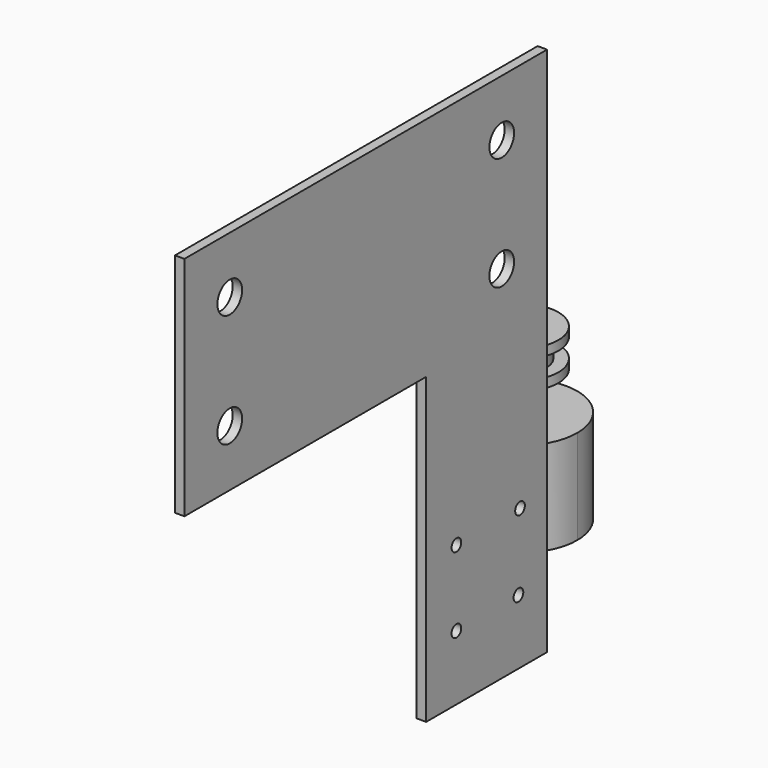
from build123d import *

# Parameters (mm, degrees)
F0_R      = 1.6
F0_R_2    = 4.0900821391
F0_R_3    = 8.5154019065
F1_DEPTH  = 2.5
F3_DEPTH  = 25
F4_R      = 2.5
F5_DEPTH  = 10
F6_R      = 10
F6_R_2    = 2.5
F7_DEPTH  = 2.5
F8_R      = 6.7837537735
F9_DEPTH  = 5
F10_R     = 10
F10_R_2   = 6.7837537735
F11_DEPTH = 2.5
F12_R     = 2.5
F13_DEPTH = 5


with BuildPart() as f1:
    # F0 (on Right) → F1 (new body)
    with BuildSketch(Plane.YZ):
        Polygon((-40, 0), (0, 0), (0, 140.4301102979), (-120, 140.4301102979), (-120, 80.4301102979), (-40, 80.4301102979), align=None)
        with Locations((-30, 17.1576072229)):
            Circle(F0_R, mode=Mode.SUBTRACT)
        with Locations((-9.4648276111, 17.1576072229)):
            Circle(F0_R, mode=Mode.SUBTRACT)
        with Locations((-30, 37.1576072229)):
            Circle(F0_R, mode=Mode.SUBTRACT)
        with Locations((-8.9432526233, 37.1576072229)):
            Circle(F0_R, mode=Mode.SUBTRACT)
        with Locations((-105, 95.4301102979)):
            Circle(F0_R_2, mode=Mode.SUBTRACT)
        with Locations((-105, 125.4301102979)):
            Circle(F0_R_2, mode=Mode.SUBTRACT)
        with Locations((-15, 95.4301102979)):
            Circle(F0_R_2, mode=Mode.SUBTRACT)
        with Locations((-60, 110.4301102979)):
            Circle(F0_R_3, mode=Mode.SUBTRACT)
        with Locations((-15, 125.4301102979)):
            Circle(F0_R_2, mode=Mode.SUBTRACT)
        with Locations((-60, 110.4301102979)):
            Circle(F0_R_3)
    extrude(amount=F1_DEPTH)


with BuildPart() as f3:
    # F2 (on Top) → F3 (new body)
    with BuildSketch(Plane.XY):
        with BuildLine():
            ThreePointArc((-51.6152642667, 35.026761755), (-34.7631884448, 28.6183173725), (-23.927834481, 43.0285818875))
            ThreePointArc((-23.927834481, 43.0285818875), (-34.7631884448, 57.4388464025), (-51.6152642667, 51.0304020199))
            Line((-51.6152642667, 51.0304020199), (-51.6152642667, 43.0285818875))
            Line((-51.6152642667, 43.0285818875), (-51.6152642667, 35.026761755))
        make_face()
    extrude(amount=F3_DEPTH)

    # F4 (on face) → F5 (join)
    with BuildSketch(Plane.XY.offset(25)):
        with Locations((-38.927834481, 43.0285818875)):
            Circle(F4_R)
    extrude(amount=F5_DEPTH)

    # F6 (on face) → F7 (join)
    with BuildSketch(Plane.XY.offset(35)):
        with Locations((-38.927834481, 43.0285818875)):
            Circle(F6_R)
        with Locations((-38.927834481, 43.0285818875)):
            Circle(F6_R_2, mode=Mode.SUBTRACT)
        with Locations((-38.927834481, 43.0285818875)):
            Circle(F6_R_2)
    extrude(amount=F7_DEPTH)

    # F8 (on face) → F9 (join)
    with BuildSketch(Plane.XY.offset(37.5)):
        with Locations((-38.927834481, 43.0285818875)):
            Circle(F8_R)
    extrude(amount=F9_DEPTH)

    # F10 (on face) → F11 (join)
    with BuildSketch(Plane.XY.offset(42.5)):
        with Locations((-38.927834481, 43.0285818875)):
            Circle(F10_R)
        with Locations((-38.927834481, 43.0285818875)):
            Circle(F10_R_2, mode=Mode.SUBTRACT)
        with Locations((-38.927834481, 43.0285818875)):
            Circle(F10_R_2)
    extrude(amount=F11_DEPTH)

    # F12 (on face) → F13 (join)
    with BuildSketch(Plane.XY.offset(45)):
        with Locations((-38.927834481, 43.0285818875)):
            Circle(F12_R)
    extrude(amount=F13_DEPTH)


solid = Compound([f1.part, f3.part])
